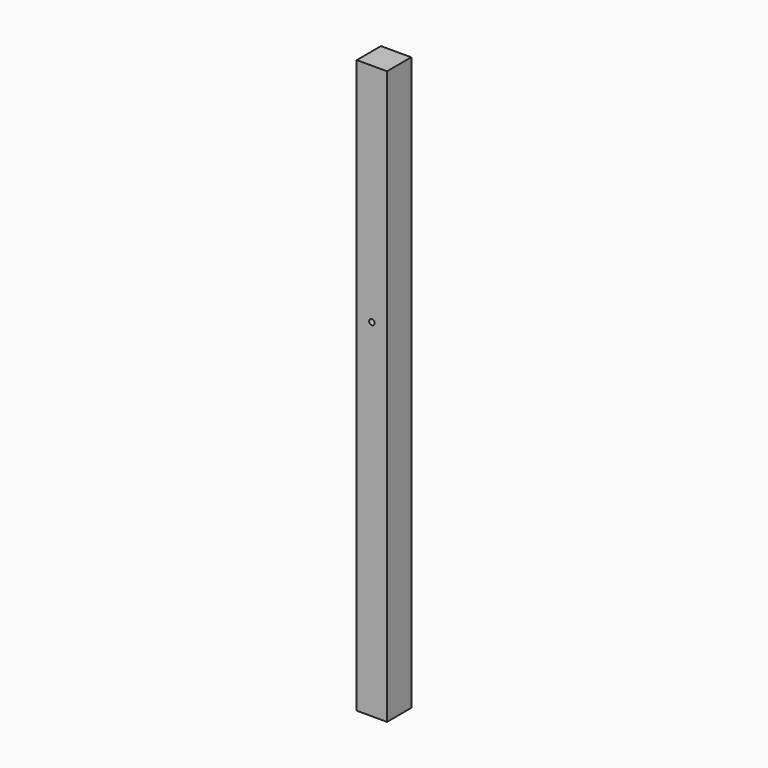
from build123d import *

# Parameters (mm, degrees)
F0_W     = 139.7
F0_H     = 2641.6
F0_R     = 12.7
F1_DEPTH = 139.7


with BuildPart() as f1:
    # F0 (on Front) → F1 (new body)
    with BuildSketch(Plane.XZ):
        with Locations((-117.102299, -6.383777)):
            Rectangle(F0_W, F0_H)
        with Locations((-117.102299, 273.016223)):
            Circle(F0_R, mode=Mode.SUBTRACT)
        with Locations((-117.102299, -6.383777)):
            Rectangle(F0_W, F0_H)
        with Locations((-117.102299, 273.016223)):
            Circle(F0_R, mode=Mode.SUBTRACT)
    extrude(amount=F1_DEPTH)


solid = f1.part
